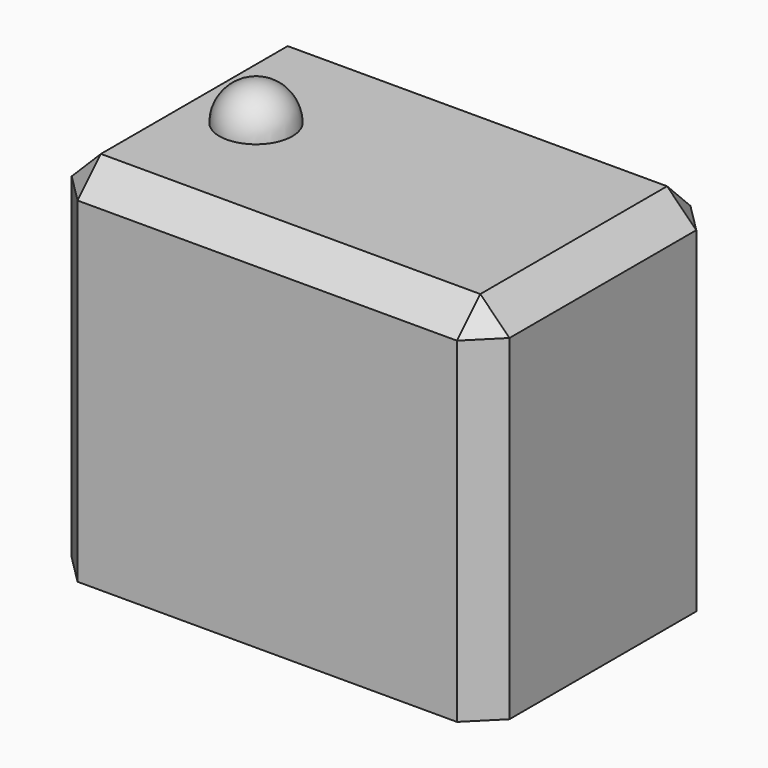
from build123d import *

# Parameters (mm, degrees)
F0_W     = 76.2
F0_H     = 50.8
F1_DEPTH = 63.5
F2_SIZE  = 5.08


with BuildPart() as f1:
    # F0 (on Top) → F1 (new body)
    with BuildSketch(Plane.XY):
        with Locations((6.05372, -4.891751)):
            Rectangle(F0_W, F0_H)
    extrude(amount=F1_DEPTH)

    # F2
    f2_edges = [f1.edges().sort_by_distance(p)[0] for p in [
        (-32.04628, 20.508249, 31.75),
        (6.05372, 20.508249, 63.5),
        (-32.04628, -4.891751, 63.5),
        (-32.04628, -30.291751, 31.75),
        (44.15372, -4.891751, 63.5),
        (44.15372, 20.508249, 31.75),
        (44.15372, -30.291751, 31.75),
        (6.05372, -30.291751, 63.5),
    ]]
    chamfer(f2_edges, length=F2_SIZE)

    # F3 (on face) → F4 (revolve)
    with BuildSketch(Plane.XY.offset(63.5)):
        with BuildLine():
            Line((-16.236074, -4.891751), (-16.236074, -11.241751))
            ThreePointArc((-16.236074, -11.241751), (-9.886074, -4.891751), (-16.236074, 1.458249))
            Line((-16.236074, 1.458249), (-16.236074, -4.891751))
        make_face()
    revolve(axis=Axis((-16.236074, -4.891751, 63.5), (0, -1, 0)))


solid = f1.part
